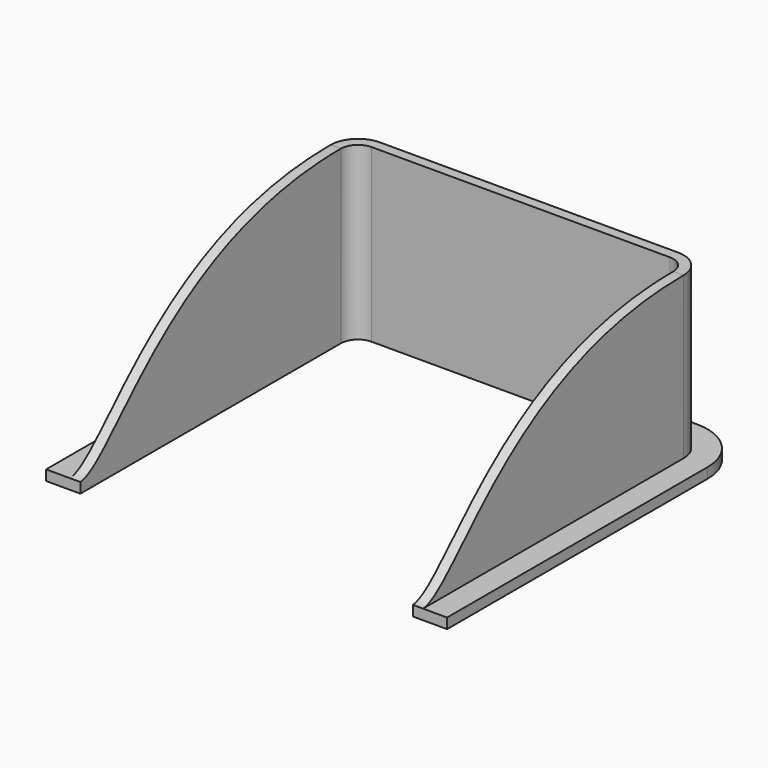
from build123d import *

# Parameters (mm, degrees)
F1_DEPTH = 50
F2_DEPTH = 3
F4_DEPTH = 103


with BuildPart() as f1:
    # F0 (on Top) → F1 (new body)
    with BuildSketch(Plane.XY):
        with BuildLine():
            Line((-51.5, 0), (-48.5, 0))
            Line((-48.5, 0), (-48.5, 95))
            ThreePointArc((-48.5, 95), (-47.0355339059, 98.5355339059), (-43.5, 100))
            Line((-43.5, 100), (43.5, 100))
            ThreePointArc((43.5, 100), (47.0355339059, 98.5355339059), (48.5, 95))
            Line((48.5, 95), (48.5, 0))
            Line((48.5, 0), (51.5, 0))
            Line((51.5, 0), (51.5, 95))
            ThreePointArc((51.5, 95), (49.1568542495, 100.6568542495), (43.5, 103))
            Line((43.5, 103), (-43.5, 103))
            ThreePointArc((-43.5, 103), (-49.1568542495, 100.6568542495), (-51.5, 95))
            Line((-51.5, 95), (-51.5, 0))
        make_face()
    extrude(amount=F1_DEPTH)

    # F0 (on Top) → F2 (join)
    with BuildSketch(Plane.XY):
        with BuildLine():
            Line((-58.5, 0), (-51.5, 0))
            Line((-51.5, 0), (-51.5, 95))
            ThreePointArc((-51.5, 95), (-49.1568542495, 100.6568542495), (-43.5, 103))
            Line((-43.5, 103), (43.5, 103))
            ThreePointArc((43.5, 103), (49.1568542495, 100.6568542495), (51.5, 95))
            Line((51.5, 95), (51.5, 0))
            Line((51.5, 0), (58.5, 0))
            Line((58.5, 0), (58.5, 95))
            ThreePointArc((58.5, 95), (54.1066017178, 105.6066017178), (43.5, 110))
            Line((43.5, 110), (-43.5, 110))
            ThreePointArc((-43.5, 110), (-54.1066017178, 105.6066017178), (-58.5, 95))
            Line((-58.5, 95), (-58.5, 0))
        make_face()
    extrude(amount=F2_DEPTH)

    # F3 (on face) → F4 (cut, through all)
    with BuildSketch(Plane(origin=(-51.5, 0, 0), x_dir=(0, -1, 0), z_dir=(-1, 0, 0))):
        with BuildLine():
            Line((0, 50), (-95, 50))
            add(Edge.make_bspline(
                [(-95, 50), (-31.6906612889, 50), (-12.9379844293, 4.3437238783), (0, 3)],
                knots=[0, 0, 0, 0, 105.9905656179, 105.9905656179, 105.9905656179, 105.9905656179], degree=3))
            Line((0, 3), (0, 50))
        make_face()
    extrude(amount=-F4_DEPTH, mode=Mode.SUBTRACT)


solid = f1.part
